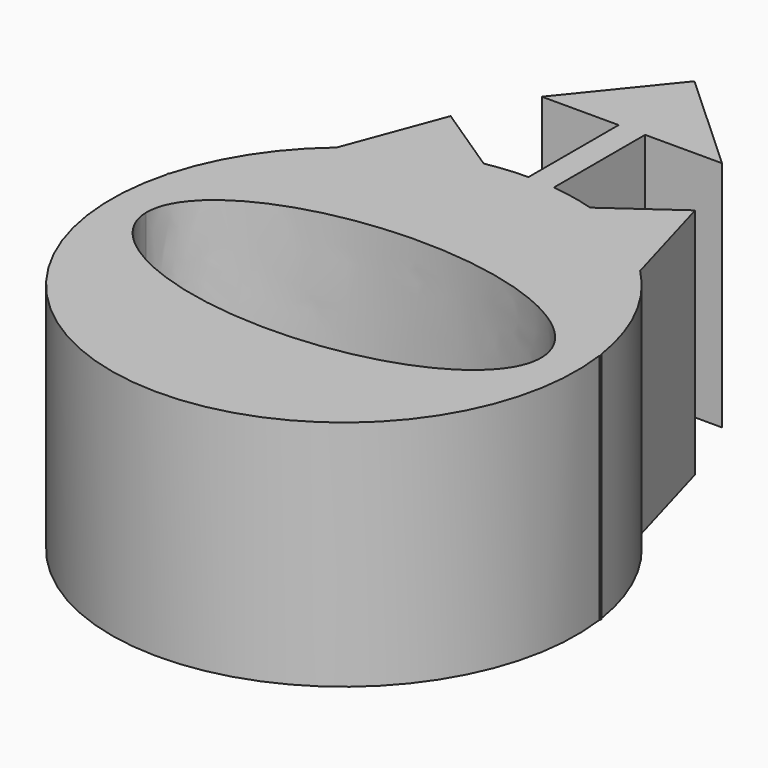
from build123d import *

# Parameters (mm, degrees)
F1_DEPTH = 25.4


with BuildPart() as f1:
    # F0 (on Top) → F1 (new body)
    with BuildSketch(Plane.XY):
        with BuildLine():
            Line((-44.980506, 45.533263), (-48.945944, 34.927538))
            ThreePointArc((-48.945944, 34.927538), (-53.959094, 29.232874), (-57.06671, 22.311632))
            ThreePointArc((-57.06671, 22.311632), (-57.10328, 22.179189), (-57.139133, 22.046551))
            add(Edge.make_bspline(
                [(-57.139133, 22.046551), (-55.951402, 19.76674), (-56.362879, 17.207652), (-54.538533, 15.65998), (-54.126684, 15.39029)],
                knots=[0, 0, 0, 0, 6.068521, 7.551351, 7.551351, 7.551351, 7.551351], degree=3))
            add(Edge.make_bspline(
                [(-11.074984, 15.485006), (-11.074984, 25.910861), (-32.699511, 25.863286), (-54.324038, 25.815711), (-54.126684, 15.39029)],
                knots=[0, 0, 0, 1.57536, 1.57536, 3.150719, 3.150719, 3.150719], degree=2, weights=[1, 0.705492, 1, 0.705492, 1]))
            add(Edge.make_bspline(
                [(-11.533519, 13.35431), (-11.074984, 14.40819), (-11.074984, 15.485006)],
                knots=[6.076414, 6.076414, 6.076414, 6.283185, 6.283185, 6.283185], degree=2, weights=[1, 0.99466, 1]))
            add(Edge.make_bspline(
                [(-11.533519, 13.35431), (-10.470214, 13.677684), (-9.705303, 14.334247), (-9.811295, 16.948305), (-8.481348, 17.689314), (-7.429187, 18.879946)],
                knots=[49.568314, 49.568314, 49.568314, 49.568314, 52.956399, 53.261198, 57.215077, 57.215077, 57.215077, 57.215077], degree=3))
            ThreePointArc((-7.429187, 18.879946), (-7.456191, 19.074493), (-7.484699, 19.268824))
            ThreePointArc((-7.484699, 19.268824), (-9.885867, 26.850301), (-14.513804, 33.317649))
            Line((-14.513804, 33.317649), (-17.8308, 44.958003))
            Line((-17.8308, 44.958003), (-25.134036, 39.762573))
            ThreePointArc((-25.134036, 39.762573), (-27.478957, 40.363145), (-29.8704, 40.737774))
            Line((-29.8704, 40.737774), (-29.8704, 53.187601))
            Line((-29.8704, 53.187601), (-21.482418, 53.187601))
            Line((-21.482418, 53.187601), (-32.760906, 63.5508))
            Line((-32.760906, 63.5508), (-41.142906, 53.187601))
            Line((-41.142906, 53.187601), (-32.760906, 53.187601))
            Line((-32.760906, 53.187601), (-32.760906, 40.884505))
            ThreePointArc((-32.760906, 40.884505), (-35.042987, 40.767373), (-37.305306, 40.445618))
            Line((-37.305306, 40.445618), (-44.980506, 45.533263))
        make_face()
        with BuildLine():
            ThreePointArc((-57.139133, 22.046551), (-57.10328, 22.179189), (-57.06671, 22.311632))
            Line((-57.06671, 22.311632), (-57.226889, 22.170573))
            Line((-57.226889, 22.170573), (-57.139133, 22.046551))
        make_face()
        with BuildLine():
            add(Edge.make_bspline(
                [(-57.139133, 22.046551), (-55.951402, 19.76674), (-56.362879, 17.207652), (-54.538533, 15.65998), (-54.126684, 15.39029)],
                knots=[0, 0, 0, 0, 6.068521, 7.551351, 7.551351, 7.551351, 7.551351], degree=3))
            ThreePointArc((-57.139133, 22.046551), (-34.216031, -9.863615), (-7.429187, 18.879946))
            add(Edge.make_bspline(
                [(-11.533519, 13.35431), (-10.470214, 13.677684), (-9.705303, 14.334247), (-9.811295, 16.948305), (-8.481348, 17.689314), (-7.429187, 18.879946)],
                knots=[49.568314, 49.568314, 49.568314, 49.568314, 52.956399, 53.261198, 57.215077, 57.215077, 57.215077, 57.215077], degree=3))
            add(Edge.make_bspline(
                [(-54.126684, 15.39029), (-53.950368, 6.076234), (-34.725104, 5.157255), (-15.499841, 4.238275), (-11.533519, 13.35431)],
                knots=[3.150719, 3.150719, 3.150719, 4.613566, 4.613566, 6.076414, 6.076414, 6.076414], degree=2, weights=[1, 0.744224, 1, 0.744224, 1]))
        make_face()
        with BuildLine():
            ThreePointArc((-7.484699, 19.268824), (-7.456191, 19.074493), (-7.429187, 18.879946))
            add(Edge.make_bspline(
                [(-7.429187, 18.879946), (-7.412604, 18.898711), (-7.396067, 18.917601), (-7.37958, 18.936621)],
                knots=[57.215077, 57.215077, 57.215077, 57.215077, 57.277393, 57.277393, 57.277393, 57.277393], degree=3))
            Line((-7.37958, 18.936621), (-7.364804, 19.111022))
            Line((-7.364804, 19.111022), (-7.484699, 19.268824))
        make_face()
    extrude(amount=F1_DEPTH)


solid = f1.part
